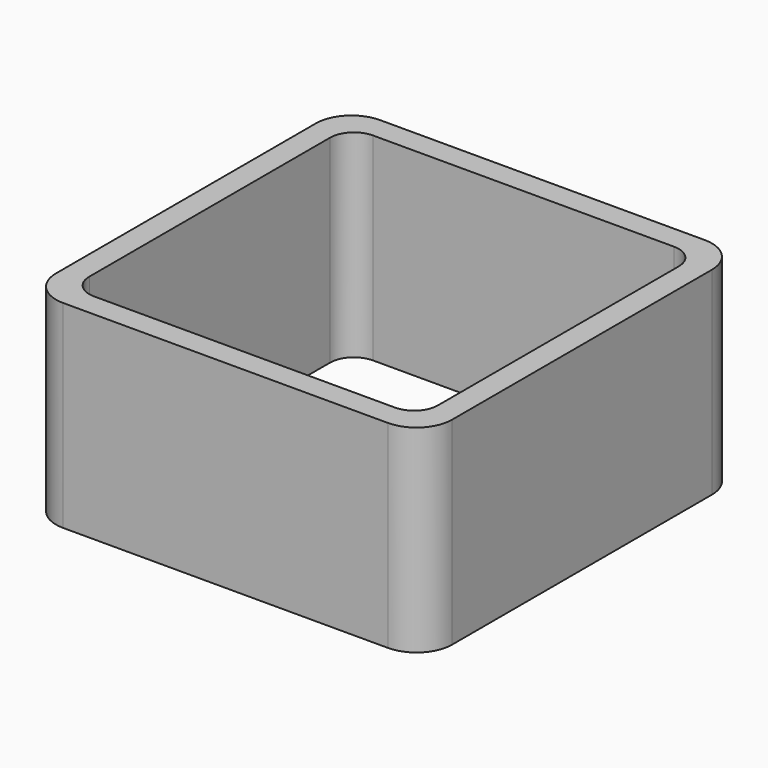
from build123d import *

# Parameters (mm, degrees)
EXTRUDE_DEPTH = 50


with BuildPart() as part:
    # Sketch → Extrude (new body)
    with BuildSketch(Plane.XY):
        with BuildLine():
            Line((-41, 50), (41, 50))
            ThreePointArc((50, 41), (47.363961, 47.363961), (41, 50))
            Line((50, 41), (50, -41))
            ThreePointArc((41, -50), (47.363961, -47.363961), (50, -41))
            Line((41, -50), (-41, -50))
            ThreePointArc((-50, -41), (-47.363961, -47.363961), (-41, -50))
            Line((-50, -41), (-50, 41))
            ThreePointArc((-41, 50), (-47.363961, 47.363961), (-50, 41))
        make_face()
        with BuildLine():
            Line((-38, 44), (38, 44))
            ThreePointArc((44, 38), (42.242641, 42.242641), (38, 44))
            Line((44, 38), (44, -38))
            ThreePointArc((38, -44), (42.242641, -42.242641), (44, -38))
            Line((38, -44), (-38, -44))
            ThreePointArc((-44, -38), (-42.242641, -42.242641), (-38, -44))
            Line((-44, -38), (-44, 38))
            ThreePointArc((-38, 44), (-42.242641, 42.242641), (-44, 38))
        make_face(mode=Mode.SUBTRACT)
    extrude(amount=EXTRUDE_DEPTH)


solid = part.part
